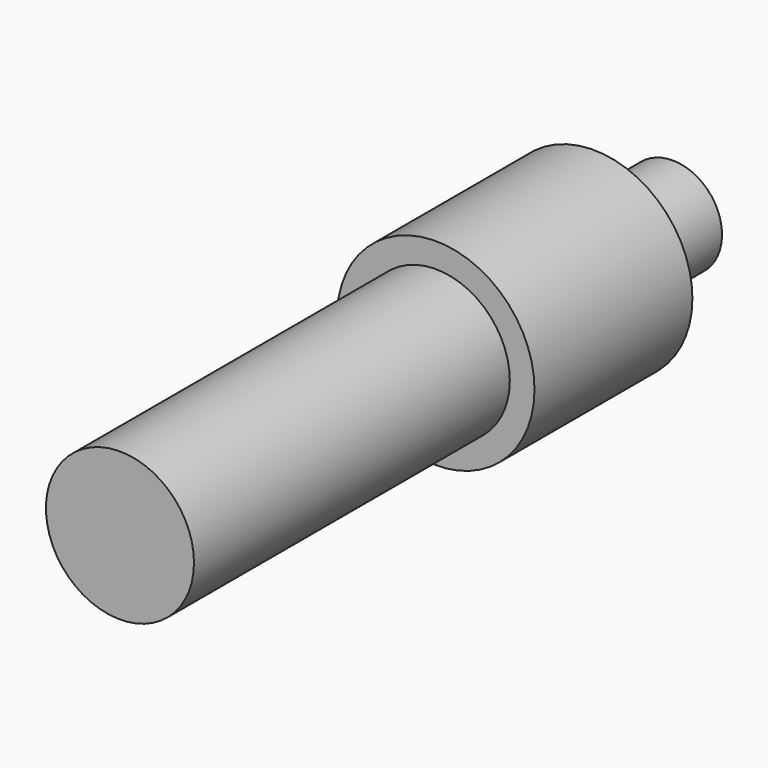
from build123d import *

# Parameters (mm, degrees)
F0_R     = 12.7
F1_DEPTH = 25.4
F2_R     = 6.35
F3_DEPTH = 12.7
F4_R     = 9.525
F5_DEPTH = 50.8


with BuildPart() as f1:
    # F0 (on Front) → F1 (new body)
    with BuildSketch(Plane.XZ):
        Circle(F0_R)
    extrude(amount=F1_DEPTH)

    # F2 (on face) → F3 (join)
    with BuildSketch(Plane(origin=(0, 0, 0), x_dir=(-1, 0, 0), z_dir=(0, 1, 0))):
        Circle(F2_R)
    extrude(amount=F3_DEPTH)

    # F4 (on face) → F5 (join)
    with BuildSketch(Plane.XZ.offset(25.4)):
        Circle(F4_R)
    extrude(amount=F5_DEPTH)


solid = f1.part
